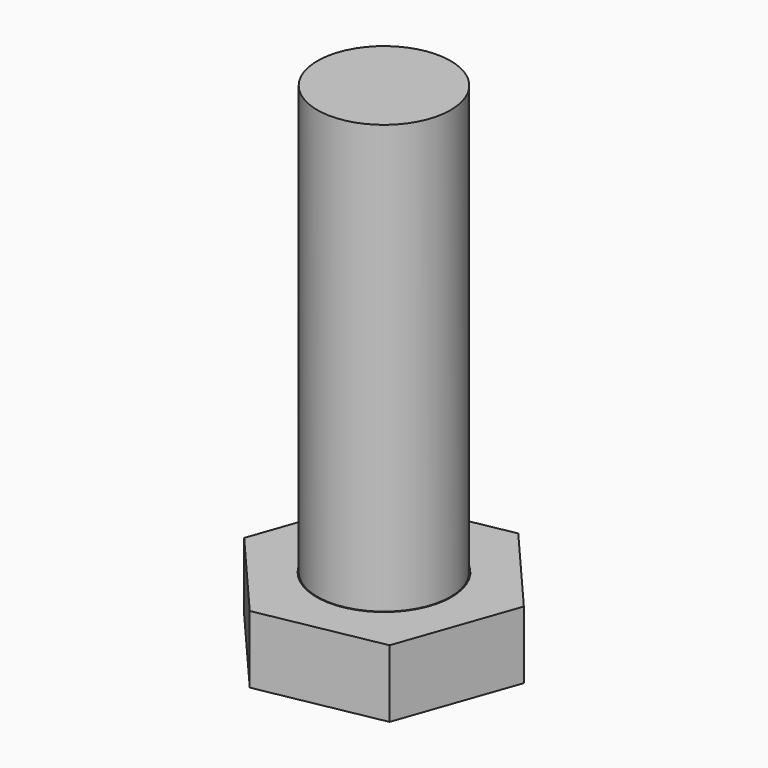
from build123d import *

# Parameters (mm, degrees)
F1_DEPTH = 2
F2_R     = 4
F3_DEPTH = 25
F4_R     = 3.95
F5_DEPTH = 25.4


with BuildPart() as f1:
    # F0 (on Top) → F1 (new body, symmetric)
    with BuildSketch(Plane.XY):
        Polygon((2.425009, 6.917242), (-4.778003, 5.55874), (-7.203011, -1.358502), (-2.425009, -6.917242), (4.778003, -5.55874), (7.203011, 1.358502), align=None)
    extrude(amount=F1_DEPTH, both=True)

    # F2 (on face) → F3 (cut)
    with BuildSketch(Plane.XY.offset(2)):
        Circle(F2_R)
    extrude(amount=-F3_DEPTH, mode=Mode.SUBTRACT)


with BuildPart() as f5:
    # F4 (on face) → F5 (new body)
    with BuildSketch(Plane.XY.offset(2)):
        Circle(F4_R)
    extrude(amount=F5_DEPTH)


solid = Compound([f1.part, f5.part])
